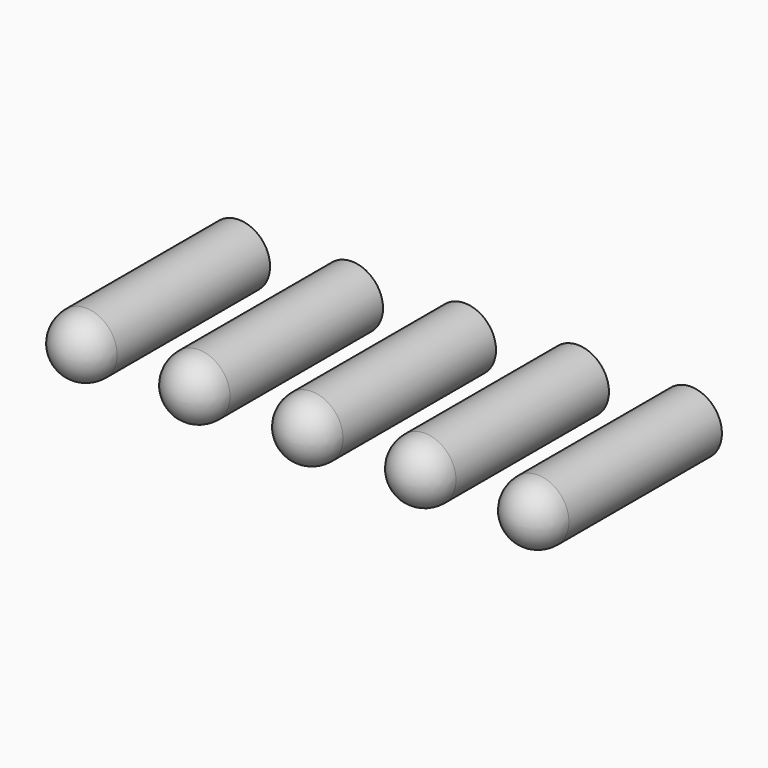
from build123d import *

# Parameters (mm, degrees)
F0_R     = 0.7
F1_DEPTH = 5
F2_R     = 0.7


with BuildPart() as f1:
    # F0 (on Front) → F1 (new body)
    with BuildSketch(Plane.XZ):
        with Locations((-5.723776, -0.220443)):
            Circle(F0_R)
        with Locations((-3.183776, -0.220443)):
            Circle(F0_R)
        with Locations((-0.643776, -0.220443)):
            Circle(F0_R)
        with Locations((1.896224, -0.220443)):
            Circle(F0_R)
        with Locations((4.436224, -0.220443)):
            Circle(F0_R)
    extrude(amount=F1_DEPTH)

    # F2
    f2_edges = [f1.edges().sort_by_distance(p)[0] for p in [
        (-6.423776, -5, -0.220443),
        (-3.883776, -5, -0.220443),
        (-1.343776, -5, -0.220443),
        (1.196224, -5, -0.220443),
        (3.736224, -5, -0.220443),
    ]]
    fillet(f2_edges, radius=F2_R)


solid = f1.part
